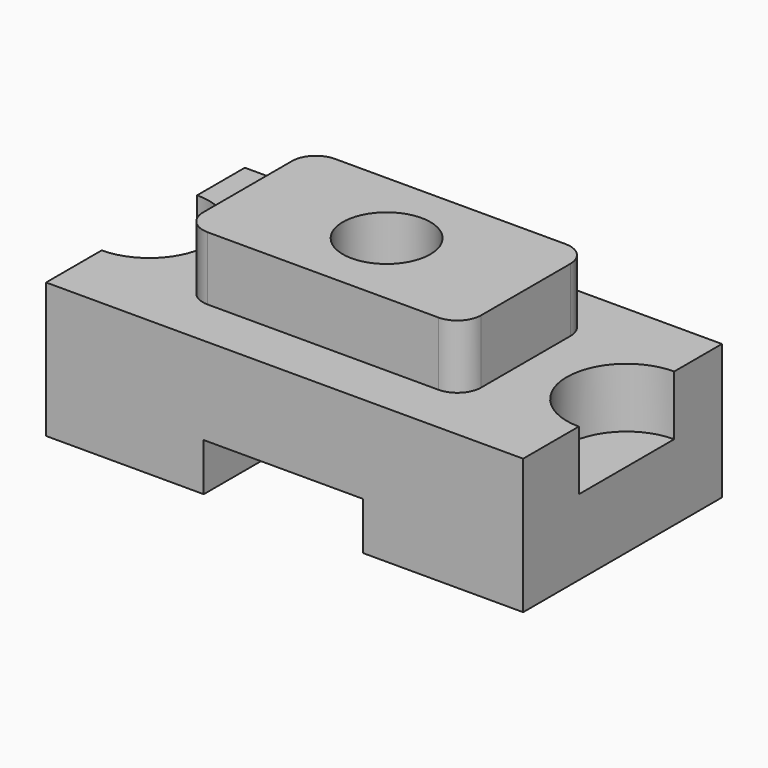
from build123d import *

# Parameters (mm, degrees)
F0_W      = 1200
F0_H      = 600
F1_DEPTH  = 340
F3_DEPTH  = 150
F5_DEPTH  = 150
F6_W      = 700
F6_H      = 400
F7_DEPTH  = 160
F8_R      = 110
F9_DEPTH  = 500.001
F10_DEPTH = 25
F11_W     = 400
F11_H     = 120
F12_DEPTH = 625.001
F13_R     = 60


with BuildPart() as f1:
    # F0 (on Top) → F1 (new body)
    with BuildSketch(Plane.XY):
        with Locations((3.413781058, 0)):
            Rectangle(F0_W, F0_H)
    extrude(amount=F1_DEPTH)

    # F2 (on face) → F3 (cut)
    with BuildSketch(Plane.XY.offset(340)):
        with BuildLine():
            ThreePointArc((-596.586218942, -150), (-490.520201764, -106.066017178), (-446.586218942, 0))
            ThreePointArc((-446.586218942, 0), (-490.520201764, 106.066017178), (-596.586218942, 150))
            Line((-596.586218942, 150), (-596.586218942, -150))
        make_face()
    extrude(amount=-F3_DEPTH, mode=Mode.SUBTRACT)

    # F4 (on face) → F5 (cut)
    with BuildSketch(Plane.XY.offset(340)):
        with BuildLine():
            Line((603.413781058, -150), (603.413781058, 150))
            ThreePointArc((603.413781058, 150), (453.413781058, 0), (603.413781058, -150))
        make_face()
    extrude(amount=-F5_DEPTH, mode=Mode.SUBTRACT)

    # F6 (on face) → F7 (join)
    with BuildSketch(Plane.XY.offset(340)):
        Rectangle(F6_W, F6_H)
    extrude(amount=F7_DEPTH)

    # F8 (on face) → F9 (cut, through all)
    with BuildSketch(Plane.XY.offset(500)):
        Circle(F8_R)
    extrude(amount=-F9_DEPTH, mode=Mode.SUBTRACT)

    # F10 (add): a face of the model
    f10_faces = [f1.faces().sort_by_distance(p)[0] for p in [
        (3.413781058, -300, 170),
    ]]
    extrude(f10_faces, amount=F10_DEPTH)

    # F11 (on face) → F12 (cut, through all)
    with BuildSketch(Plane.XZ.offset(325)):
        with Locations((0, 60)):
            Rectangle(F11_W, F11_H)
    extrude(amount=-F12_DEPTH, mode=Mode.SUBTRACT)

    # F13
    f13_edges = [f1.edges().sort_by_distance(p)[0] for p in [
        (-350, -200, 420),
        (350, -200, 420),
        (350, 200, 420),
        (-350, 200, 420),
    ]]
    fillet(f13_edges, radius=F13_R)


solid = f1.part
